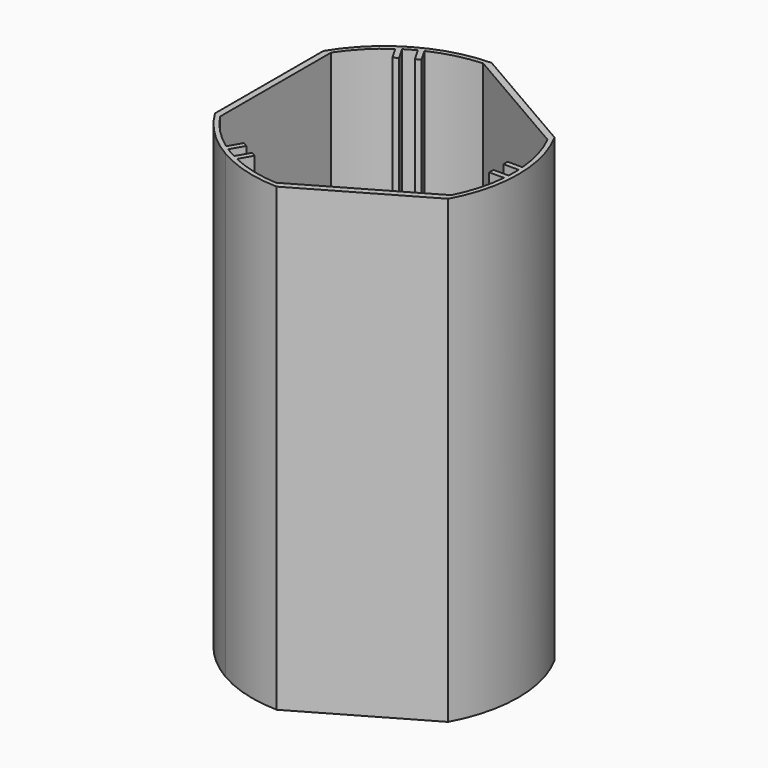
from build123d import *

# Parameters (mm, degrees)
F1_DEPTH = 254


with BuildPart() as f1:
    # F0 (on Top) → F1 (new body)
    with BuildSketch(Plane.XY):
        with BuildLine():
            ThreePointArc((-63.9172971278, -37.252269623), (-52.0807404951, -52.2039753244), (-36.9024421093, -63.7485339738))
            ThreePointArc((-36.9024421093, -63.7485339738), (-19.329509086, -71.1638954598), (-0.4655556078, -73.9829059564))
            Line((-0.4655556078, -73.9829059564), (64.2619446451, -36.7110377546))
            ThreePointArc((64.2619446451, -36.7110377546), (73.6610943752, -0.0492537933), (64.2619446451, 36.6125301679))
            Line((64.2619446451, 36.6125301679), (-0.2964437039, 73.9837768494))
            ThreePointArc((-0.2964437039, 73.9837768494), (-36.7555669447, 63.8344957469), (-63.835166885, 37.3964390584))
            Line((-63.835166885, 37.3964390584), (-63.9172971278, -37.252269623))
        make_face()
        with BuildLine():
            ThreePointArc((-29.8470599698, 64.5650233271), (-16.6651496872, 69.2432790749), (-2.8365521462, 71.3453555691))
            Line((-2.8365521462, 71.3453555691), (63.2439805634, 33.0929773438))
            ThreePointArc((63.2439805634, 33.0929773438), (68.3274899289, 20.0442670833), (70.8495918756, 6.2692930832))
            Line((70.8495918756, 6.2692930832), (70.6192062362, 6.2692930832))
            Line((70.6192062362, 6.2692930832), (62.687598795, 6.2783581593))
            Line((62.687598795, 6.2783581593), (62.687598795, 3.3573562515))
            Line((62.687598795, 3.3573562515), (70.615867812, 3.348294991))
            Line((70.615867812, 3.348294991), (71.0426971184, 3.348294991))
            ThreePointArc((71.0426971184, 3.348294991), (71.1210876471, -0.0807369009), (71.0397659342, -3.5097005299))
            Line((71.0397659342, -3.5097005299), (70.6080297727, -3.5097005299))
            Line((70.6080297727, -3.5097005299), (62.6803413512, -3.500639933))
            Line((62.6803413512, -3.500639933), (62.6803413512, -6.4216418407))
            Line((62.6803413512, -6.4216418407), (70.6046913485, -6.4306986222))
            Line((70.6046913485, -6.4306986222), (70.8445183989, -6.4264536924))
            ThreePointArc((70.8445183989, -6.4264536924), (68.3189554011, -20.1728501626), (63.2423364631, -33.1947480478))
            Line((63.2423364631, -33.1947480478), (-2.9995097455, -71.3386181446))
            ThreePointArc((-2.9995097455, -71.3386181446), (-16.824714987, -69.2041833938), (-29.9970779625, -64.4945161744))
            Line((-29.9970779625, -64.4945161744), (-29.8802360443, -64.2926731373))
            Line((-29.8802360443, -64.2926731373), (-25.9083996901, -57.4313726302))
            Line((-25.9083996901, -57.4313726302), (-28.4363890304, -55.9679824239))
            Line((-28.4363890304, -55.9679824239), (-32.4082253845, -62.829282931))
            Line((-32.4082253845, -62.829282931), (-32.6223672301, -63.1992104464))
            ThreePointArc((-32.6223672301, -63.1992104464), (-34.1357470047, -62.3922544042), (-35.629928885, -61.550282371))
            ThreePointArc((-35.629928885, -61.550282371), (-37.1041062051, -60.6737487447), (-38.557476293, -59.7631306268))
            Line((-38.557476293, -59.7631306268), (-38.343504705, -59.3934972294))
            Line((-38.343504705, -59.3934972294), (-34.3716683509, -52.5321967223))
            Line((-34.3716683509, -52.5321967223), (-36.8996576911, -51.068806516))
            Line((-36.8996576911, -51.068806516), (-40.8714940452, -57.9301070231))
            Line((-40.8714940452, -57.9301070231), (-40.9880198366, -58.1314039549))
            ThreePointArc((-40.9880198366, -58.1314039549), (-51.6286997848, -49.0558778871), (-60.3622655514, -38.132779784))
            Line((-60.3622655514, -38.132779784), (-60.2782067134, 38.2688415367))
            ThreePointArc((-60.2782067134, 38.2688415367), (-51.5174942727, 49.1747845638), (-40.8529560911, 58.2278117456))
            Line((-40.8529560911, 58.2278117456), (-40.7361678983, 58.0249936915))
            Line((-40.7361678983, 58.0249936915), (-36.7818624227, 51.1578222559))
            Line((-36.7818624227, 51.1578222559), (-34.2505346584, 52.6154301419))
            Line((-34.2505346584, 52.6154301419), (-38.2048401339, 59.4826015775))
            Line((-38.2048401339, 59.4826015775), (-38.4180671326, 59.8541359939))
            ThreePointArc((-38.4180671326, 59.8541359939), (-35.4878957288, 61.6334483289), (-32.478111739, 63.2745020074))
            Line((-32.478111739, 63.2745020074), (-32.261722774, 62.9048113968))
            Line((-32.261722774, 62.9048113968), (-28.3075860187, 56.0379329659))
            Line((-28.3075860187, 56.0379329659), (-25.7762582543, 57.4955408519))
            Line((-25.7762582543, 57.4955408519), (-29.7303950097, 64.3624192828))
            Line((-29.7303950097, 64.3624192828), (-29.8470599698, 64.5650233271))
        make_face(mode=Mode.SUBTRACT)
    extrude(amount=F1_DEPTH)


solid = f1.part
